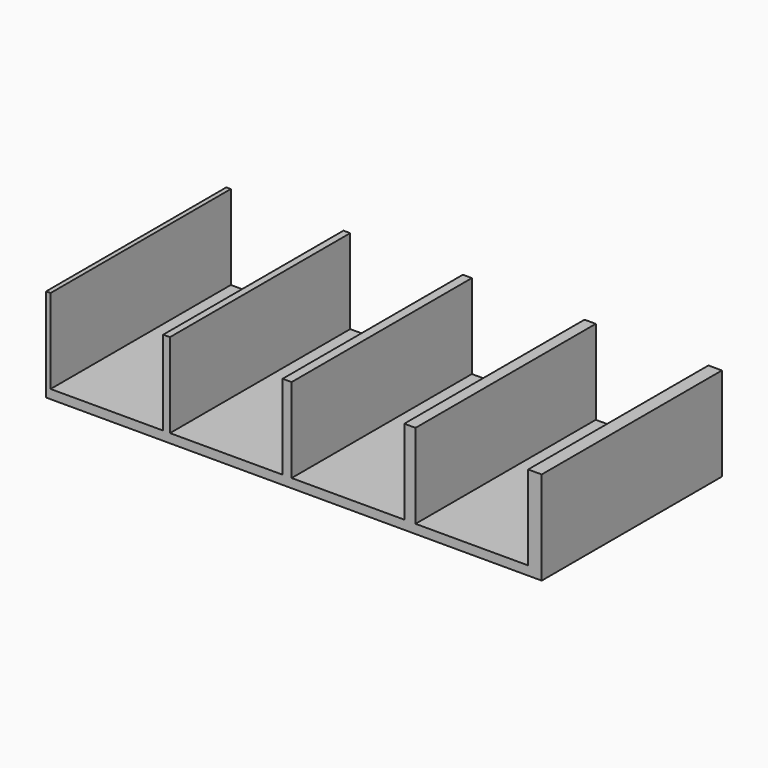
from build123d import *

# Parameters (mm, degrees)
F0_W     = 88
F0_H     = 40
F1_DEPTH = 1.6
F2_W     = 0.8
F2_H     = 40
F2_W_2   = 1.2
F2_W_3   = 1.6
F2_W_4   = 2
F2_W_5   = 2.4
F3_DEPTH = 15


with BuildPart() as f1:
    # F0 (on Top) → F1 (new body)
    with BuildSketch(Plane.XY):
        with Locations((44, -20)):
            Rectangle(F0_W, F0_H)
    extrude(amount=F1_DEPTH)

    # F2 (on face) → F3 (join)
    with BuildSketch(Plane.XY.offset(1.6)):
        with Locations((0.4, -20)):
            Rectangle(F2_W, F2_H)
        with Locations((21.4, -20)):
            Rectangle(F2_W_2, F2_H)
        with Locations((42.8, -20)):
            Rectangle(F2_W_3, F2_H)
        with Locations((64.6, -20)):
            Rectangle(F2_W_4, F2_H)
        with Locations((86.8, -20)):
            Rectangle(F2_W_5, F2_H)
    extrude(amount=F3_DEPTH)


solid = f1.part
